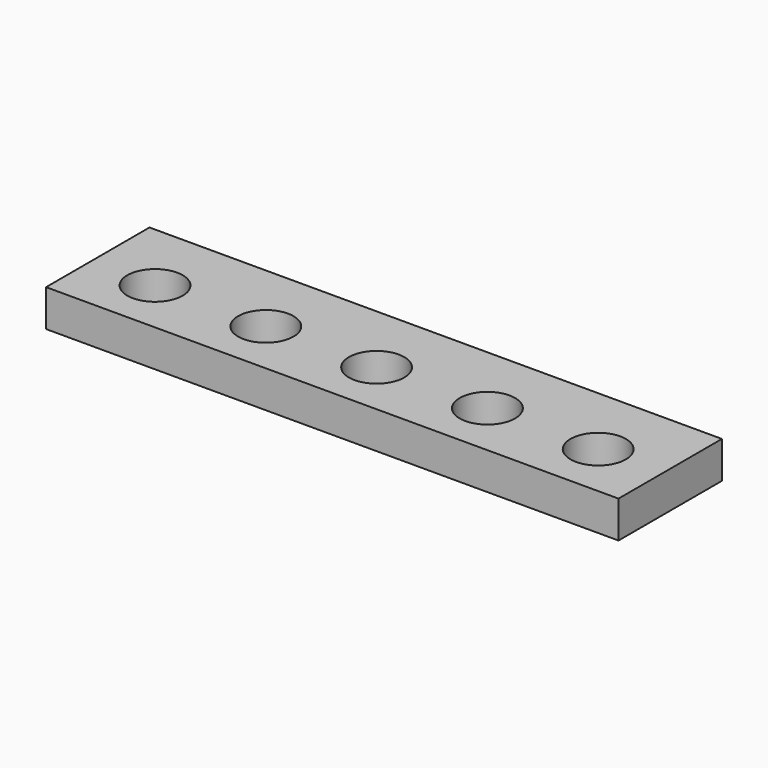
from build123d import *

# Parameters (mm, degrees)
CYLINDER_R     = 1.5
CYLINDER_DEPTH = 10
ARRAY_X_COUNT  = 5
ARRAY_X_PITCH  = 6
BOX_W          = 31
BOX_H          = 7
BOX_DEPTH      = 2


with BuildPart() as array:
    # Cylinder → Cylinder (new body)
    with BuildSketch(Plane.XY):
        Circle(CYLINDER_R)
    extrude(amount=CYLINDER_DEPTH)

    # Array X: Array ×5


with BuildPart() as array_1:
    add(array.part)
    with Locations(*[(i * ARRAY_X_PITCH, 0, 0) for i in range(1, ARRAY_X_COUNT)]):
        add(array.part)


with BuildPart() as array_2:
    # Array placement: moved
    add(array_1.part.moved(Location((0, 0, -1))))


with BuildPart() as cut:
    # Box → Box (new body)
    with BuildSketch(Plane(origin=(-3.5, -3, 0), x_dir=(1, 0, 0), z_dir=(0, 0, 1))):
        with Locations((15.5, 3.5)):
            Rectangle(BOX_W, BOX_H)
    extrude(amount=BOX_DEPTH)

    # Cut: cut Array
    add(array_2.part, mode=Mode.SUBTRACT)


solid = cut.part
